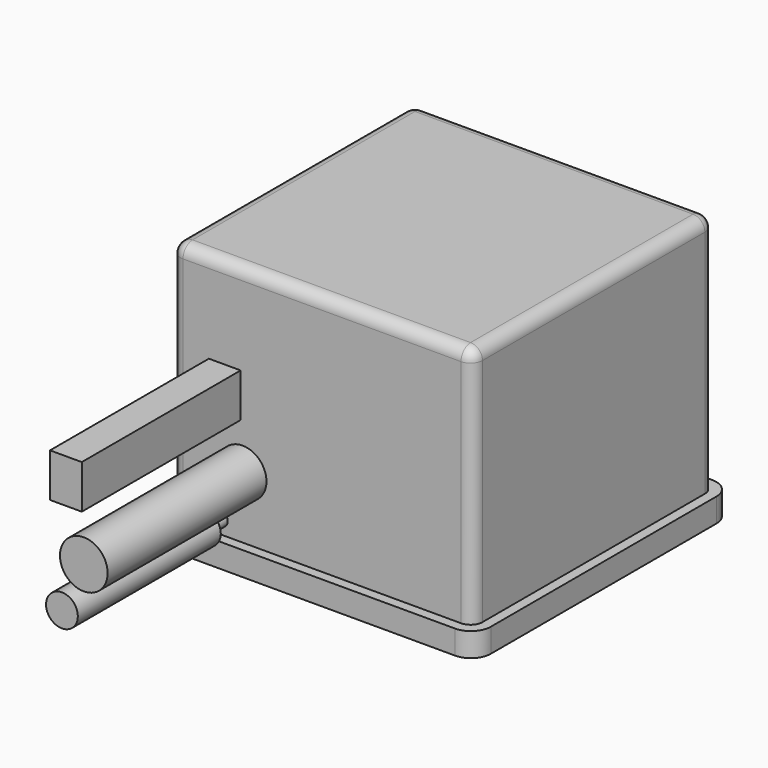
from build123d import *

# Parameters (mm, degrees)
CYLINDER018_R          = 4
CYLINDER018_DEPTH      = 61
CYLINDER018_ROLL_ANGLE = 90
CYLINDER023_R          = 4
CYLINDER023_DEPTH      = 45
CYLINDER023_ROLL_ANGLE = 90
CYLINDER021_R          = 1.75
CYLINDER021_DEPTH      = 31
CYLINDER021_ROLL_ANGLE = 90
CYLINDER022_R          = 4
CYLINDER022_DEPTH      = 45
CYLINDER022_ROLL_ANGLE = 90
CYLINDER019_R          = 6
CYLINDER019_DEPTH      = 63
CYLINDER019_ROLL_ANGLE = 90
BOX023_W               = 8
BOX023_H               = 58
BOX023_DEPTH           = 11
CYLINDER020_R          = 1.75
CYLINDER020_DEPTH      = 23
CYLINDER020_ROLL_ANGLE = 90
BOX025_W               = 81
BOX025_H               = 81
BOX025_DEPTH           = 6
FILLET005_R            = 5
BOX024_W               = 76
BOX024_H               = 76
BOX024_DEPTH           = 66
FILLET004_R            = 3


with BuildPart() as cylinder096:
    # Cylinder018 → Cylinder018 (new body)
    with BuildSketch(Plane.XY):
        Circle(CYLINDER018_R)
    extrude(amount=CYLINDER018_DEPTH)


with BuildPart() as cylinder096_1:
    # Cylinder018 roll: moved
    add(cylinder096.part.rotate(Axis((0, 0, 0), (1, 0, 0)), CYLINDER018_ROLL_ANGLE))


with BuildPart() as cylinder096_2:
    # Cylinder018 placement: moved
    add(cylinder096_1.part.moved(Location((-5, 124, 89.6))))


with BuildPart() as cylinder101:
    # Cylinder023 → Cylinder023 (new body)
    with BuildSketch(Plane.XY):
        Circle(CYLINDER023_R)
    extrude(amount=CYLINDER023_DEPTH)


with BuildPart() as cylinder101_1:
    # Cylinder023 roll: moved
    add(cylinder101.part.rotate(Axis((0, 0, 0), (1, 0, 0)), CYLINDER023_ROLL_ANGLE))


with BuildPart() as cylinder101_2:
    # Cylinder023 placement: moved
    add(cylinder101_1.part.moved(Location((-8.5, 124, 71.5))))


with BuildPart() as cylinder099:
    # Cylinder021 → Cylinder021 (new body)
    with BuildSketch(Plane.XY):
        Circle(CYLINDER021_R)
    extrude(amount=CYLINDER021_DEPTH)


with BuildPart() as cylinder099_1:
    # Cylinder021 roll: moved
    add(cylinder099.part.rotate(Axis((0, 0, 0), (1, 0, 0)), CYLINDER021_ROLL_ANGLE))


with BuildPart() as cylinder099_2:
    # Cylinder021 placement: moved
    add(cylinder099_1.part.moved(Location((-8.5, 94, 71.5))))


with BuildPart() as cylinder100:
    # Cylinder022 → Cylinder022 (new body)
    with BuildSketch(Plane.XY):
        Circle(CYLINDER022_R)
    extrude(amount=CYLINDER022_DEPTH)


with BuildPart() as cylinder100_1:
    # Cylinder022 roll: moved
    add(cylinder100.part.rotate(Axis((0, 0, 0), (1, 0, 0)), CYLINDER022_ROLL_ANGLE))


with BuildPart() as cylinder100_2:
    # Cylinder022 placement: moved
    add(cylinder100_1.part.moved(Location((-8.5, -7, 71.5))))


with BuildPart() as cylinder097:
    # Cylinder019 → Cylinder019 (new body)
    with BuildSketch(Plane.XY):
        Circle(CYLINDER019_R)
    extrude(amount=CYLINDER019_DEPTH)


with BuildPart() as cylinder097_1:
    # Cylinder019 roll: moved
    add(cylinder097.part.rotate(Axis((0, 0, 0), (1, 0, 0)), CYLINDER019_ROLL_ANGLE))


with BuildPart() as cylinder097_2:
    # Cylinder019 placement: moved
    add(cylinder097_1.part.moved(Location((-3, 11, 83.5))))


with BuildPart() as cube037:
    # Box023 → Box023 (new body)
    with BuildSketch(Plane(origin=(-11.5, -52, 95), x_dir=(1, 0, 0), z_dir=(0, 0, 1))):
        with Locations((4, 29)):
            Rectangle(BOX023_W, BOX023_H)
    extrude(amount=BOX023_DEPTH)


with BuildPart() as cylinder098:
    # Cylinder020 → Cylinder020 (new body)
    with BuildSketch(Plane.XY):
        Circle(CYLINDER020_R)
    extrude(amount=CYLINDER020_DEPTH)


with BuildPart() as cylinder098_1:
    # Cylinder020 roll: moved
    add(cylinder098.part.rotate(Axis((0, 0, 0), (1, 0, 0)), CYLINDER020_ROLL_ANGLE))


with BuildPart() as cylinder098_2:
    # Cylinder020 placement: moved
    add(cylinder098_1.part.moved(Location((-8.5, 1, 71.5))))


with BuildPart() as fillet005:
    # Box025 → Box025 (new body)
    with BuildSketch(Plane(origin=(-23.5, -4.5, 63), x_dir=(1, 0, 0), z_dir=(0, 0, 1))):
        with Locations((40.5, 40.5)):
            Rectangle(BOX025_W, BOX025_H)
    extrude(amount=BOX025_DEPTH)

    # Fillet005
    fillet005_edges = [fillet005.edges().sort_by_distance(p)[0] for p in [
        (-23.5, -4.5, 66),
        (-23.5, 76.5, 66),
        (57.5, -4.5, 66),
        (57.5, 76.5, 66),
    ]]
    fillet(fillet005_edges, radius=FILLET005_R)


with BuildPart() as fillet005_1:
    # Fillet005 placement: moved
    add(fillet005.part.moved(Location((0, 0, -1))))


with BuildPart() as corte_positivo:
    # Box024 → Box024 (new body)
    with BuildSketch(Plane(origin=(-21, -2, 63), x_dir=(1, 0, 0), z_dir=(0, 0, 1))):
        with Locations((38, 38)):
            Rectangle(BOX024_W, BOX024_H)
    extrude(amount=BOX024_DEPTH)

    # Fillet004
    fillet004_edges = [corte_positivo.edges().sort_by_distance(p)[0] for p in [
        (-21, -2, 96),
        (-21, 36, 129),
        (-21, 74, 96),
        (55, -2, 96),
        (55, 36, 129),
        (55, 74, 96),
        (17, -2, 129),
        (17, 74, 129),
    ]]
    fillet(fillet004_edges, radius=FILLET004_R)

    # Fusion018: union Fillet005
    add(fillet005_1.part)

    # Fusion019: union Cylinder096, Cylinder101, Cylinder099, Cylinder100, Cylinder097, Cube037, Cylinder098
    add(cylinder096_2.part)
    add(cylinder101_2.part)
    add(cylinder099_2.part)
    add(cylinder100_2.part)
    add(cylinder097_2.part)
    add(cube037.part)
    add(cylinder098_2.part)


solid = corte_positivo.part
